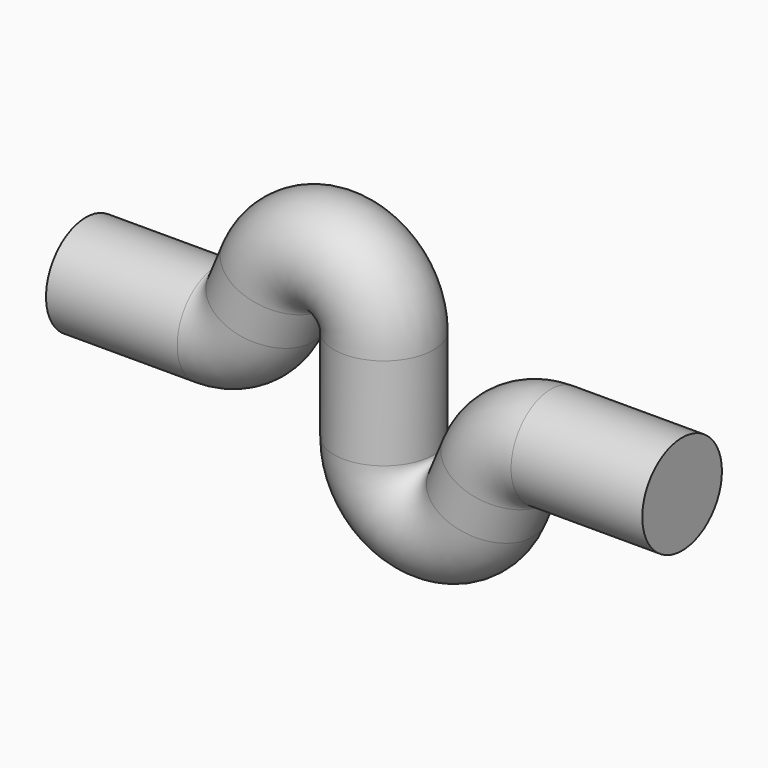
from build123d import *

# Parameters (mm, degrees)
F2_R = 0.835


with BuildPart() as f3:
    # F3: sweep along a path in F0
    with BuildLine(Plane.XZ) as f3_path:
        Line((-5, 0), (-2.8, 0))
        ThreePointArc((-2.8, 0), (-2.301935, 0.150379), (-1.970312, 0.551263))
        Line((-1.970312, 0.551263), (-1.729688, 1.123737))
        ThreePointArc((-1.729688, 1.123737), (-0.722123, 1.657247), (0, 0.775))
        Line((0, 0.775), (0, 0))
        Line((0, 0), (0, -0.775))
        ThreePointArc((0, -0.775), (0.722123, -1.657247), (1.729688, -1.123737))
        Line((1.729688, -1.123737), (1.970312, -0.551263))
        ThreePointArc((1.970312, -0.551263), (2.301935, -0.150379), (2.8, 0))
        Line((2.8, 0), (5, 0))
    # F2 (on plane+point) → F3 (sweep)
    with BuildSketch(Plane.YZ.offset(-5)):
        Circle(F2_R)
    sweep(path=f3_path.line)


solid = f3.part
